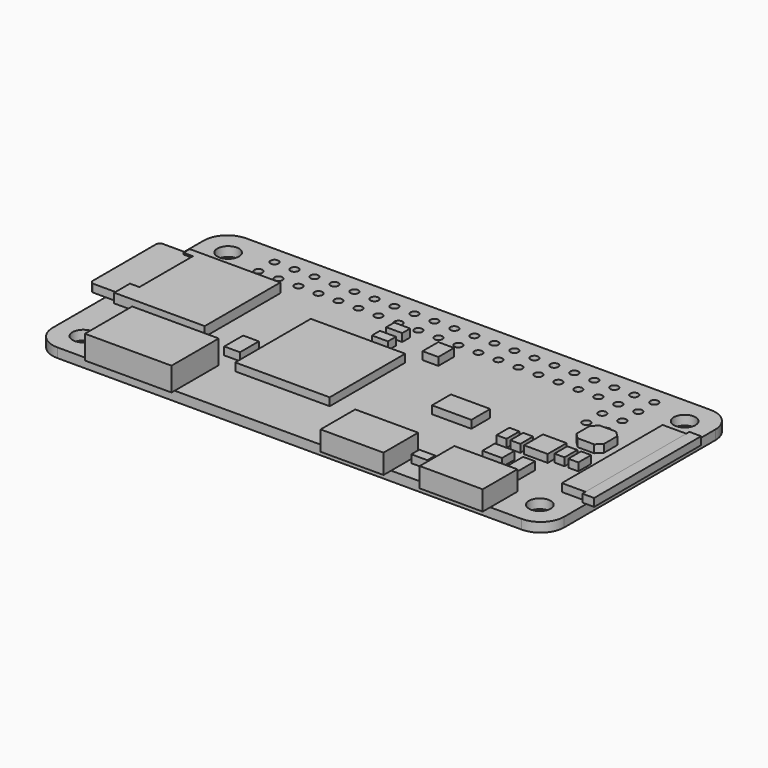
from build123d import *

# Parameters (mm, degrees)
F0_R      = 3
F0_R_2    = 0.508
F0_R_3    = 1.375
F3_DEPTH  = 1.2
F4_DEPTH  = 1
F1_W      = 3
F1_H      = 16
F5_DEPTH  = 1
F1_W_2    = 8
F1_H_2    = 5.5
F6_DEPTH  = 2.5
F1_W_3    = 11
F1_H_3    = 7.5
F7_DEPTH  = 3
F8_DEPTH  = 1.2
F1_W_4    = 1.2
F1_H_4    = 8.5
F9_DEPTH  = 1
F2_W      = 12
F2_H      = 12
F2_W_2    = 2.032
F2_H_2    = 1.27
F2_W_3    = 1.27
F2_H_3    = 2.032
F2_W_4    = 2
F2_H_4    = 3
F2_W_5    = 5
F2_W_6    = 3
F2_H_5    = 2.5
F2_W_7    = 2.5
F2_H_6    = 2
F2_W_8    = 1.524
F2_H_7    = 3.048
F10_DEPTH = 1


with BuildPart() as f3:
    # F0 (on Top) → F3 (new body)
    with BuildSketch(Plane.XY):
        with BuildLine():
            ThreePointArc((32.5, 12), (31.62132, 14.12132), (29.5, 15))
            Line((29.5, 15), (-29.5, 15))
            ThreePointArc((-29.5, 15), (-31.62132, 14.12132), (-32.5, 12))
            Line((-32.5, 12), (-32.5, -12))
            ThreePointArc((-32.5, -12), (-31.62132, -14.12132), (-29.5, -15))
            Line((-29.5, -15), (29.5, -15))
            ThreePointArc((29.5, -15), (31.62132, -14.12132), (32.5, -12))
            Line((32.5, -12), (32.5, 12))
        make_face()
        with Locations((-29, -11.5)):
            Circle(F0_R, mode=Mode.SUBTRACT)
        with Locations((29, -11.5)):
            Circle(F0_R, mode=Mode.SUBTRACT)
        with Locations((-24.13, 10.23)):
            Circle(F0_R_2, mode=Mode.SUBTRACT)
        with Locations((-21.59, 10.23)):
            Circle(F0_R_2, mode=Mode.SUBTRACT)
        with Locations((-19.05, 10.23)):
            Circle(F0_R_2, mode=Mode.SUBTRACT)
        with Locations((-16.51, 10.23)):
            Circle(F0_R_2, mode=Mode.SUBTRACT)
        with Locations((-29, 11.5)):
            Circle(F0_R, mode=Mode.SUBTRACT)
        with Locations((-24.13, 12.77)):
            Circle(F0_R_2, mode=Mode.SUBTRACT)
        with Locations((-21.59, 12.77)):
            Circle(F0_R_2, mode=Mode.SUBTRACT)
        with Locations((-19.05, 12.77)):
            Circle(F0_R_2, mode=Mode.SUBTRACT)
        with Locations((-16.51, 12.77)):
            Circle(F0_R_2, mode=Mode.SUBTRACT)
        with Locations((-13.97, 10.23)):
            Circle(F0_R_2, mode=Mode.SUBTRACT)
        with Locations((-11.43, 10.23)):
            Circle(F0_R_2, mode=Mode.SUBTRACT)
        with Locations((-8.89, 10.23)):
            Circle(F0_R_2, mode=Mode.SUBTRACT)
        with Locations((-6.35, 10.23)):
            Circle(F0_R_2, mode=Mode.SUBTRACT)
        with Locations((-3.81, 10.23)):
            Circle(F0_R_2, mode=Mode.SUBTRACT)
        with Locations((-1.27, 10.23)):
            Circle(F0_R_2, mode=Mode.SUBTRACT)
        with Locations((-13.97, 12.77)):
            Circle(F0_R_2, mode=Mode.SUBTRACT)
        with Locations((-11.43, 12.77)):
            Circle(F0_R_2, mode=Mode.SUBTRACT)
        with Locations((-8.89, 12.77)):
            Circle(F0_R_2, mode=Mode.SUBTRACT)
        with Locations((-6.35, 12.77)):
            Circle(F0_R_2, mode=Mode.SUBTRACT)
        with Locations((-3.81, 12.77)):
            Circle(F0_R_2, mode=Mode.SUBTRACT)
        with Locations((-1.27, 12.77)):
            Circle(F0_R_2, mode=Mode.SUBTRACT)
        with Locations((21.59, 5.15)):
            Circle(F0_R_2, mode=Mode.SUBTRACT)
        with Locations((24.13, 5.15)):
            Circle(F0_R_2, mode=Mode.SUBTRACT)
        with Locations((1.27, 10.23)):
            Circle(F0_R_2, mode=Mode.SUBTRACT)
        with Locations((3.81, 10.23)):
            Circle(F0_R_2, mode=Mode.SUBTRACT)
        with Locations((6.35, 10.23)):
            Circle(F0_R_2, mode=Mode.SUBTRACT)
        with Locations((8.89, 10.23)):
            Circle(F0_R_2, mode=Mode.SUBTRACT)
        with Locations((11.43, 10.23)):
            Circle(F0_R_2, mode=Mode.SUBTRACT)
        with Locations((13.97, 10.23)):
            Circle(F0_R_2, mode=Mode.SUBTRACT)
        with Locations((1.27, 12.77)):
            Circle(F0_R_2, mode=Mode.SUBTRACT)
        with Locations((3.81, 12.77)):
            Circle(F0_R_2, mode=Mode.SUBTRACT)
        with Locations((6.35, 12.77)):
            Circle(F0_R_2, mode=Mode.SUBTRACT)
        with Locations((8.89, 12.77)):
            Circle(F0_R_2, mode=Mode.SUBTRACT)
        with Locations((11.43, 12.77)):
            Circle(F0_R_2, mode=Mode.SUBTRACT)
        with Locations((13.97, 12.77)):
            Circle(F0_R_2, mode=Mode.SUBTRACT)
        with Locations((21.59, 7.69)):
            Circle(F0_R_2, mode=Mode.SUBTRACT)
        with Locations((24.13, 7.69)):
            Circle(F0_R_2, mode=Mode.SUBTRACT)
        with Locations((16.51, 10.23)):
            Circle(F0_R_2, mode=Mode.SUBTRACT)
        with Locations((19.05, 10.23)):
            Circle(F0_R_2, mode=Mode.SUBTRACT)
        with Locations((21.59, 10.23)):
            Circle(F0_R_2, mode=Mode.SUBTRACT)
        with Locations((24.13, 10.23)):
            Circle(F0_R_2, mode=Mode.SUBTRACT)
        with Locations((16.51, 12.77)):
            Circle(F0_R_2, mode=Mode.SUBTRACT)
        with Locations((19.05, 12.77)):
            Circle(F0_R_2, mode=Mode.SUBTRACT)
        with Locations((21.59, 12.77)):
            Circle(F0_R_2, mode=Mode.SUBTRACT)
        with Locations((24.13, 12.77)):
            Circle(F0_R_2, mode=Mode.SUBTRACT)
        with Locations((29, 11.5)):
            Circle(F0_R, mode=Mode.SUBTRACT)
        with Locations((-29, -11.5)):
            Circle(F0_R)
        with Locations((-29, -11.5)):
            Circle(F0_R_3, mode=Mode.SUBTRACT)
        with Locations((-29, 11.5)):
            Circle(F0_R)
        with Locations((-29, 11.5)):
            Circle(F0_R_3, mode=Mode.SUBTRACT)
        with Locations((29, 11.5)):
            Circle(F0_R)
        with Locations((29, 11.5)):
            Circle(F0_R_3, mode=Mode.SUBTRACT)
        with Locations((29, -11.5)):
            Circle(F0_R)
        with Locations((29, -11.5)):
            Circle(F0_R_3, mode=Mode.SUBTRACT)
    extrude(amount=-F3_DEPTH)


with BuildPart() as f4:
    # F1 (on Top) → F4 (new body)
    with BuildSketch(Plane.XY):
        Polygon((32, -8.5), (33.5, -8.5), (33.5, 8.5), (32, 8.5), (32, 8), (32, -8), align=None)
    extrude(amount=F4_DEPTH)


with BuildPart() as f5:
    # F1 (on Top) → F5 (new body)
    with BuildSketch(Plane.XY):
        with Locations((30.5, 0)):
            Rectangle(F1_W, F1_H)
    extrude(amount=F5_DEPTH)


with BuildPart() as f6:
    # F1 (on Top) → F6 (new body)
    with BuildSketch(Plane.XY):
        with Locations((21.5, -13.45)):
            Rectangle(F1_W_2, F1_H_2)
        with Locations((8.9, -13.45)):
            Rectangle(F1_W_2, F1_H_2)
    extrude(amount=F6_DEPTH)


with BuildPart() as f7:
    # F1 (on Top) → F7 (new body)
    with BuildSketch(Plane.XY):
        with Locations((-20.1, -11.75)):
            Rectangle(F1_W_3, F1_H_3)
    extrude(amount=F7_DEPTH)


with BuildPart() as f8:
    # F1 (on Top) → F8 (new body)
    with BuildSketch(Plane.XY):
        Polygon((-19.5, -4.1), (-19.5, 7.9), (-31, 7.9), (-31, 7.4), (-31, 6.9), (-29.8, 6.9), (-29.8, -1.6), (-31, -1.6), (-31, -3.6), (-31, -4.1), align=None)
    extrude(amount=F8_DEPTH)


with BuildPart() as f9:
    # F1 (on Top) → F9 (new body)
    with BuildSketch(Plane.XY):
        with Locations((-30.4, 2.65)):
            Rectangle(F1_W_4, F1_H_4)
        with BuildLine():
            Line((-31, 6.9), (-31, 7.4))
            Line((-31, 7.4), (-34, 7.4))
            ThreePointArc((-34, 7.4), (-34.353553, 7.253553), (-34.5, 6.9))
            Line((-34.5, 6.9), (-34.5, -3.1))
            ThreePointArc((-34.5, -3.1), (-34.353553, -3.453553), (-34, -3.6))
            Line((-34, -3.6), (-31, -3.6))
            Line((-31, -3.6), (-31, -1.6))
            Line((-31, -1.6), (-31, 6.9))
        make_face()
    extrude(amount=F9_DEPTH)


with BuildPart() as f10:
    # F2 (on Top) → F10 (new body)
    with BuildSketch(Plane.XY):
        with Locations((-6.5, -2)):
            Rectangle(F2_W, F2_H)
        with Locations((-4.516, 7.905)):
            Rectangle(F2_W_2, F2_H_2)
        with Locations((-4.516, 5.635)):
            Rectangle(F2_W_2, F2_H_2)
        with Locations((14.484, -11.865)):
            Rectangle(F2_W_2, F2_H_2)
        with Locations((18.135, -2.984)):
            Rectangle(F2_W_3, F2_H_3)
        with Locations((19.885, -2.984)):
            Rectangle(F2_W_3, F2_H_3)
        with Locations((25.115, -2.5)):
            Rectangle(F2_W_3, F2_H_3)
        with Locations((26.865, -2.5)):
            Rectangle(F2_W_3, F2_H_3)
        with Locations((-14.5, -4.5)):
            Rectangle(F2_W_4, F2_H_4)
        with Locations((11, -1.5)):
            Rectangle(F2_W_5, F2_H_4)
        with Locations((22.5, -2.5)):
            Rectangle(F2_W_6, F2_H_4)
        with Locations((1.5, 6.75)):
            Rectangle(F2_W_4, F2_H_5)
        with Locations((19.75, -6.5)):
            Rectangle(F2_W_7, F2_H_6)
        with Locations((23.238, -7.524)):
            Rectangle(F2_W_8, F2_H_7)
        Polygon((24.2, 4), (23.5, 3.3), (23.5, 1.2), (24.2, 0.5), (26.3, 0.5), (27, 1.2), (27, 3.3), (26.3, 4), align=None)
    extrude(amount=F10_DEPTH)


solid = Compound([f3.part, f4.part, f5.part, f6.part, f7.part, f8.part, f9.part, f10.part])
